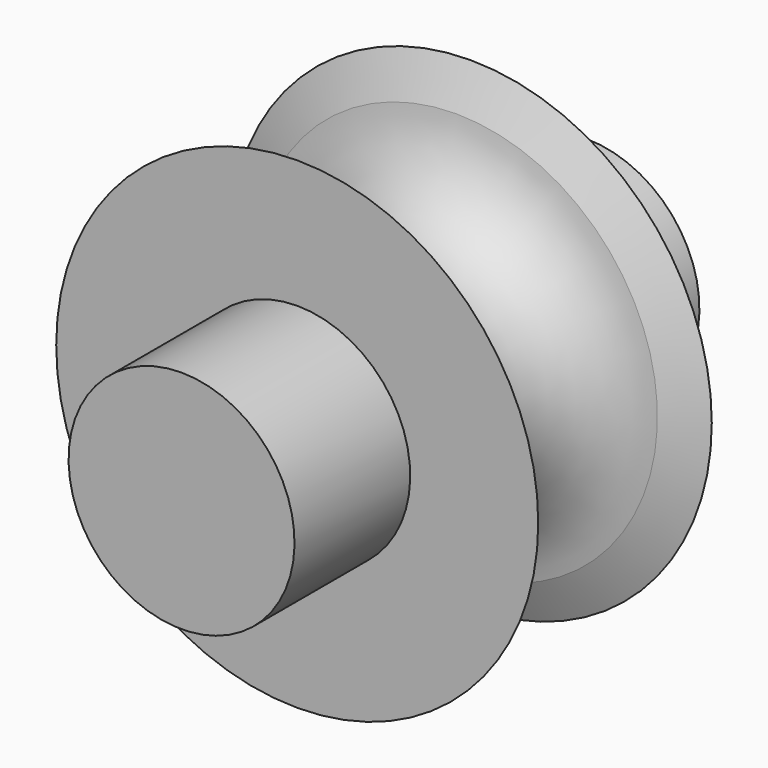
from build123d import *

# Parameters (mm, degrees)
F0_W = 15.24
F0_H = 11.90625


with BuildPart() as f1:
    # F0 (on Right) → F1 (revolve)
    with BuildSketch(Plane.YZ):
        with Locations((-19.05, 5.953125)):
            Rectangle(F0_W, F0_H)
        with BuildLine():
            Line((-9.48514, 21.229234), (-11.43, 25.4))
            Line((-11.43, 25.4), (-11.43, 11.90625))
            Line((-11.43, 11.90625), (-11.43, 0))
            Line((-11.43, 0), (11.43, 0))
            Line((11.43, 0), (11.43, 11.90625))
            Line((11.43, 11.90625), (11.43, 25.4))
            Line((11.43, 25.4), (9.48514, 21.229234))
            ThreePointArc((9.48514, 21.229234), (0, 12.574721), (-9.48514, 21.229234))
        make_face()
        with Locations((19.05, 5.953125)):
            Rectangle(F0_W, F0_H)
    revolve(axis=Axis((0, 0, 0), (0, 1, 0)))


solid = f1.part
